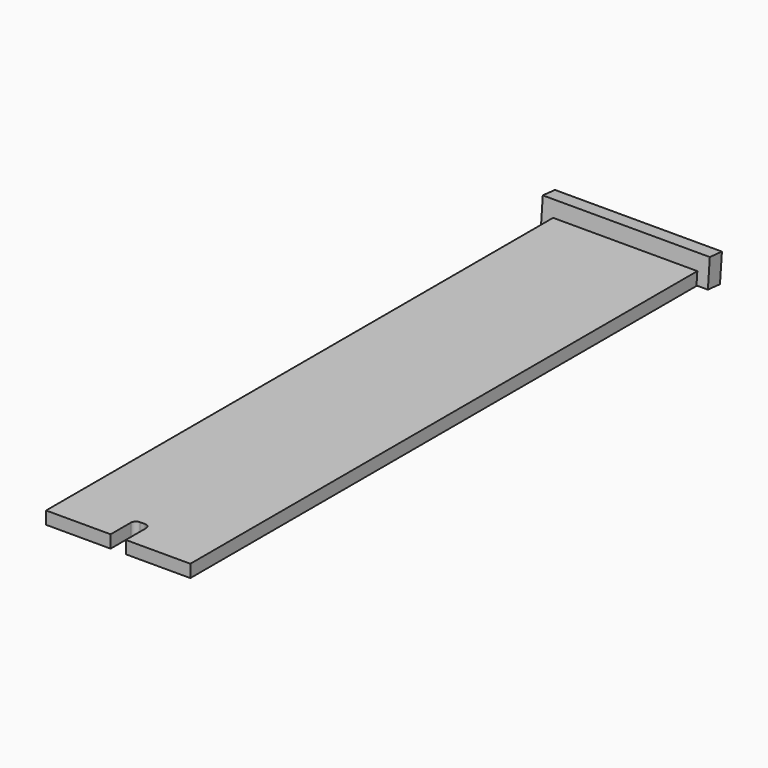
from build123d import *

# Parameters (mm, degrees)
F1_DEPTH      = 2.5
F2_R          = 1
F4_W          = 33
F4_H          = 5.5
F5_DEPTH      = 2
F5_DEPTH_BACK = 1


with BuildPart() as f1:
    # F0 (on Top) → F1 (new body)
    with BuildSketch(Plane.XY):
        Polygon((-23.6938069443, 68.3301911354), (-23.6938069443, -57.6698088646), (-10.9438069443, -57.6698088646), (-10.9438069443, -51.6698088646), (-7.9438069443, -51.6698088646), (-7.9438069443, -57.6698088646), (4.8061930557, -57.6698088646), (4.8061930557, 68.3301911354), align=None)
    extrude(amount=F1_DEPTH)

    # F2
    f2_edges = [f1.edges().sort_by_distance(p)[0] for p in [
        (-10.943807, -51.669809, 1.25),
        (-7.943807, -51.669809, 1.25),
    ]]
    fillet(f2_edges, radius=F2_R)

    # F4 (on face) → F5 (join, two sides)
    with BuildSketch(Plane(origin=(0, 67.8111465652, -5.9327065851), x_dir=(1, 0, 0), z_dir=(0, -0.9961946981, 0.0871557427))) as f5_sk:
        with Locations((-9.4438069443, 8.7053685605)):
            Rectangle(F4_W, F4_H)
    extrude(amount=-F5_DEPTH)
    extrude(f5_sk.sketch, amount=F5_DEPTH_BACK)


solid = f1.part
